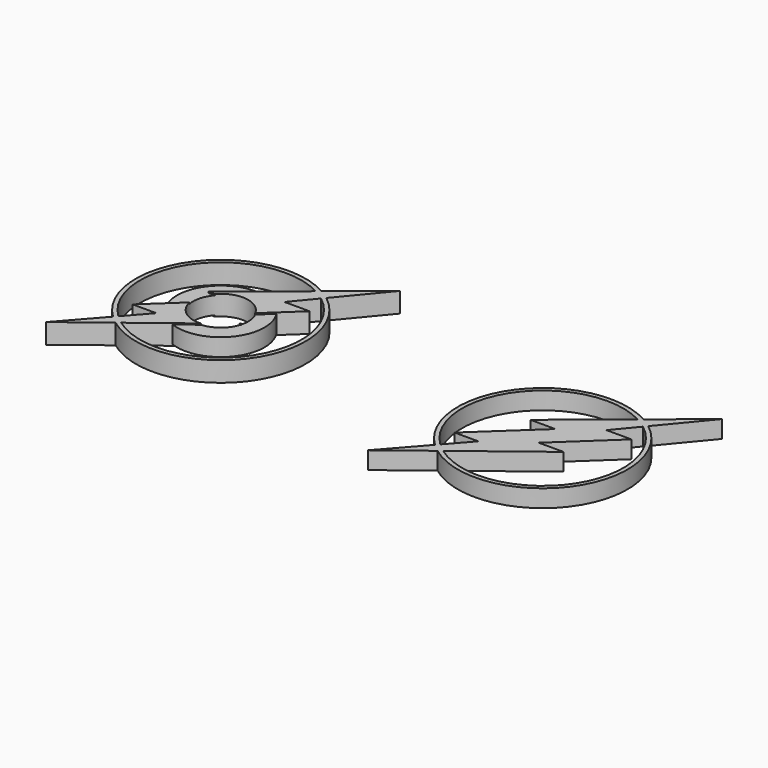
from build123d import *

# Parameters (mm, degrees)
F1_DEPTH = 4
F3_DEPTH = 3.5
F0_R     = 17.5
F0_R_2   = 11
F4_DEPTH = 12.5


with BuildPart() as f1:
    # F0 (on Top) → F1 (new body, symmetric)
    with BuildSketch(Plane.XY):
        with BuildLine():
            Line((108.7852449225, -28.7244588639), (94.7288274765, -44.6647256613))
            Line((94.7288274765, -44.6647256613), (111.948788965, -31.3989787612))
            ThreePointArc((111.948788965, -31.3989787612), (159.4091762592, -24.6532280154), (152.9788344756, 22.8509214853))
            Line((152.9788344756, 22.8509214853), (167.9873764515, 40.9821607172))
            Line((167.9873764515, 40.9821607172), (148.9655762499, 25.4999380126))
            ThreePointArc((148.9655762499, 25.4999380126), (104.9580490458, 16.1105279599), (108.7852449225, -28.7244588639))
        make_face()
        with BuildLine():
            Line((154.493033886, 12.5583419576), (144.4589197636, 12.5583419576))
            Line((144.4589197636, 12.5583419576), (151.894032038, 21.5404136059))
            ThreePointArc((151.894032038, 21.5404136059), (158.2156540419, -23.4112108102), (113.3504015781, -30.3192180319))
            Line((113.3504015781, -30.3192180319), (143.1933492422, -7.3290974833))
            Line((143.1933492422, -7.3290974833), (133.2496255636, -7.3290974833))
            Line((133.2496255636, -7.3290974833), (154.493033886, 12.5583419576))
        make_face(mode=Mode.SUBTRACT)
        with BuildLine():
            Line((108.3709695976, -18.3933340013), (117.8954188988, -18.3933340013))
            Line((117.8954188988, -18.3933340013), (109.910569413, -27.4483177218))
            ThreePointArc((109.910569413, -27.4483177218), (106.1453531249, 14.8550560972), (147.5428330502, 24.3419389359))
            Line((147.5428330502, 24.3419389359), (121.5210035443, 3.1622527167))
            Line((121.5210035443, 3.1622527167), (131.5303295851, 3.1622527167))
            Line((131.5303295851, 3.1622527167), (108.3709695976, -18.3933340013))
        make_face(mode=Mode.SUBTRACT)
    extrude(amount=F1_DEPTH, both=True)


with BuildPart() as f1_1:
    # F2: moved
    add(f1.part.moved(Location((-132.2836276846, 4.137752642, 0))))

    # F0 (on Top) → F3, piece 2 (join, symmetric)
    with BuildSketch(Plane.XY):
        Circle(F0_R)
        Circle(F0_R_2, mode=Mode.SUBTRACT)
    extrude(amount=F3_DEPTH, both=True)

    # F0 (on Top) → F4 (cut, symmetric)
    with BuildSketch(Plane.XY):
        Circle(F0_R_2)
    extrude(amount=F4_DEPTH, both=True, mode=Mode.SUBTRACT)


with BuildPart() as f3:
    # F0 (on Top) → F3 (new body, symmetric)
    with BuildSketch(Plane.XY):
        with BuildLine():
            Line((108.7852449225, -28.7244588639), (94.7288274765, -44.6647256613))
            Line((94.7288274765, -44.6647256613), (111.948788965, -31.3989787612))
            ThreePointArc((111.948788965, -31.3989787612), (159.4091762592, -24.6532280154), (152.9788344756, 22.8509214853))
            Line((152.9788344756, 22.8509214853), (167.9873764515, 40.9821607172))
            Line((167.9873764515, 40.9821607172), (148.9655762499, 25.4999380126))
            ThreePointArc((148.9655762499, 25.4999380126), (104.9580490458, 16.1105279599), (108.7852449225, -28.7244588639))
        make_face()
        with BuildLine():
            Line((154.493033886, 12.5583419576), (144.4589197636, 12.5583419576))
            Line((144.4589197636, 12.5583419576), (151.894032038, 21.5404136059))
            ThreePointArc((151.894032038, 21.5404136059), (158.2156540419, -23.4112108102), (113.3504015781, -30.3192180319))
            Line((113.3504015781, -30.3192180319), (143.1933492422, -7.3290974833))
            Line((143.1933492422, -7.3290974833), (133.2496255636, -7.3290974833))
            Line((133.2496255636, -7.3290974833), (154.493033886, 12.5583419576))
        make_face(mode=Mode.SUBTRACT)
        with BuildLine():
            Line((108.3709695976, -18.3933340013), (117.8954188988, -18.3933340013))
            Line((117.8954188988, -18.3933340013), (109.910569413, -27.4483177218))
            ThreePointArc((109.910569413, -27.4483177218), (106.1453531249, 14.8550560972), (147.5428330502, 24.3419389359))
            Line((147.5428330502, 24.3419389359), (121.5210035443, 3.1622527167))
            Line((121.5210035443, 3.1622527167), (131.5303295851, 3.1622527167))
            Line((131.5303295851, 3.1622527167), (108.3709695976, -18.3933340013))
        make_face(mode=Mode.SUBTRACT)
    extrude(amount=F3_DEPTH, both=True)


solid = Compound([f1_1.part, f3.part])
